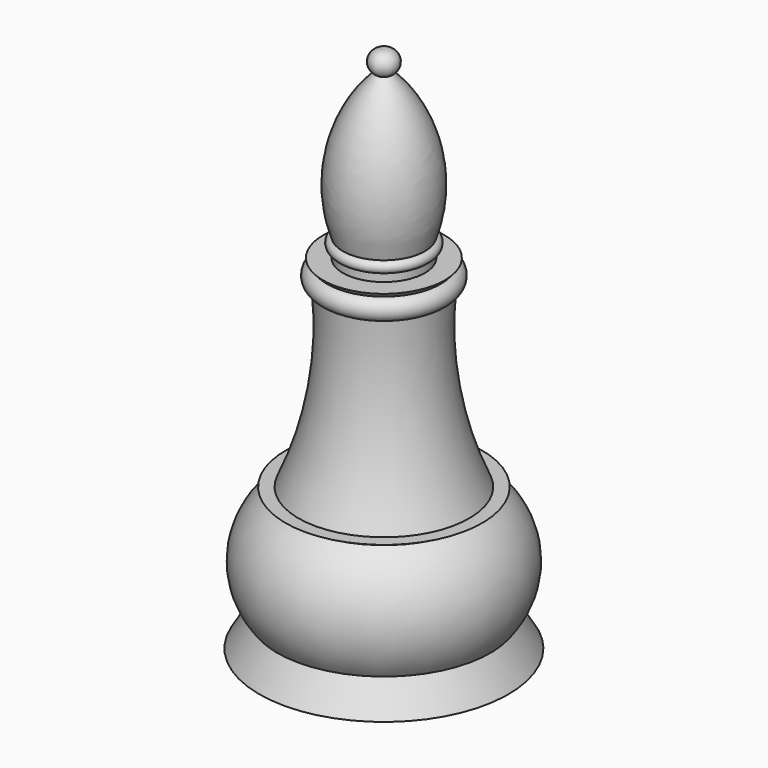
from build123d import *


with BuildPart() as f1:
    # F0 (on Right) → F1 (revolve)
    with BuildSketch(Plane.YZ):
        with BuildLine():
            Line((-6.743999, -15.566447), (-6.255512, -15.840568))
            ThreePointArc((-6.255512, -15.840568), (-8.376245, -19.305821), (-7.314796, -23.227405))
            Line((-7.314796, -23.227405), (-8.547529, -25.32473))
            Line((-8.547529, -25.32473), (0, -25.32473))
            Line((0, -25.32473), (0, 10.865145))
            ThreePointArc((0, 10.865145), (-0.859939, 10.400332), (-0.554096, 9.471889))
            ThreePointArc((-0.554096, 9.471889), (-3.106124, 4.850887), (-2.817132, -0.42007))
            ThreePointArc((-2.817132, -0.42007), (-3.149678, -0.799906), (-2.817132, -1.179742))
            Line((-2.817132, -1.179742), (-2.817132, -1.734666))
            Line((-2.817132, -1.734666), (-4.179219, -1.734666))
            Line((-4.179219, -1.734666), (-3.884023, -2.062576))
            ThreePointArc((-3.884023, -2.062576), (-4.44089, -2.78825), (-3.884023, -3.513924))
            ThreePointArc((-3.884023, -3.513924), (-4.089212, -9.668694), (-5.861165, -15.566447))
            Line((-5.861165, -15.566447), (-6.743999, -15.566447))
        make_face()
    revolve(axis=Axis((0, 0, -7.229792), (0, 0, -1)))


solid = f1.part
